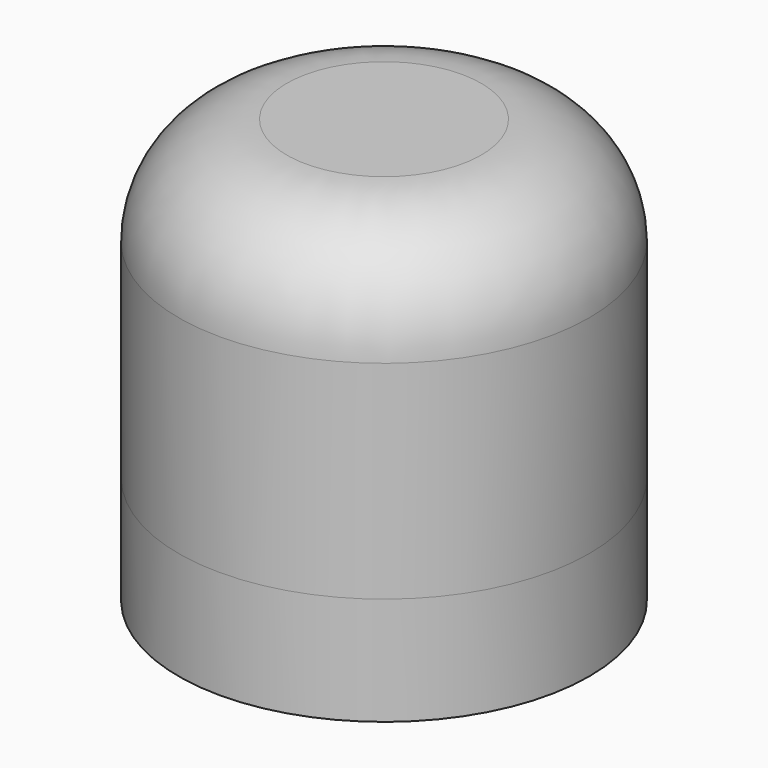
from build123d import *

# Parameters (mm, degrees)
F0_W     = 95
F0_H     = 146.062418
F2_R     = 50
F3_R     = 95
F4_DEPTH = 50


with BuildPart() as f1:
    # F0 (on Right) → F1 (revolve)
    with BuildSketch(Plane.YZ):
        with Locations((47.5, 73.031209)):
            Rectangle(F0_W, F0_H)
    revolve(axis=Axis((0, 0, 73.031209), (0, 0, 1)))

    # F2
    f2_edges = [f1.edges().sort_by_distance(p)[0] for p in [
        (0, -95, 146.062418),
    ]]
    fillet(f2_edges, radius=F2_R)


with BuildPart() as f4:
    # F3 (on face) → F4 (new body)
    with BuildSketch(Plane(origin=(0, 0, 0), x_dir=(1, 0, 0), z_dir=(0, 0, -1))):
        Circle(F3_R)
    extrude(amount=F4_DEPTH)


solid = Compound([f1.part, f4.part])
